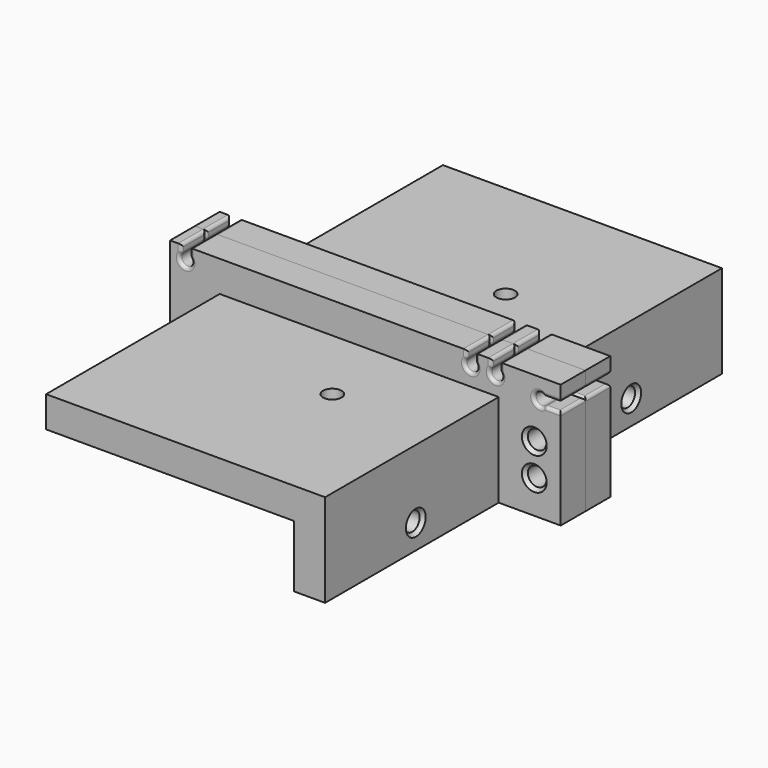
from build123d import *

# Parameters (mm, degrees)
F1_DEPTH             = 5
F2_R                 = 0.5
F3_W                 = 40
F3_H                 = 5
F4_DEPTH             = 35
F7_D                 = 3
F7_CSINK_D           = 4
F7_CSINK_ANGLE       = 82
F7_ON_F6_D           = 3
F7_ON_F6_CSINK_D     = 4
F7_ON_F6_CSINK_ANGLE = 82
F7_ON_F3_D           = 3
F7_ON_F3_CSINK_D     = 4
F7_ON_F3_CSINK_ANGLE = 82


with BuildPart() as f1:
    # F0 (on Front) → F1 (new body)
    with BuildSketch(Plane.XZ):
        with BuildLine():
            Line((-55, 0), (0, 0))
            Line((0, 0), (0, 20))
            Line((0, 20), (-1.7928932188, 20))
            Line((-1.7928932188, 20), (-1.7928932188, 18.6897154199))
            ThreePointArc((-1.7928932188, 18.6897154199), (-1.5761204675, 18.3652920711), (-1.5, 17.9826086387))
            ThreePointArc((-1.5, 17.9826086387), (-2.8826834324, 17.0587291062), (-3.2071067812, 18.6897154199))
            Line((-3.2071067812, 18.6897154199), (-3.2071067812, 20))
            Line((-3.2071067812, 20), (-5.7928932188, 20))
            Line((-5.7928932188, 20), (-5.7928932188, 18.6897154199))
            ThreePointArc((-5.7928932188, 18.6897154199), (-5.5761204675, 18.3652920711), (-5.5, 17.9826086387))
            ThreePointArc((-5.5, 17.9826086387), (-6.8826834324, 17.0587291062), (-7.2071067812, 18.6897154199))
            Line((-7.2071067812, 18.6897154199), (-7.2071067812, 20))
            Line((-7.2071067812, 20), (-51.7928932188, 20))
            Line((-51.7928932188, 20), (-51.7928932188, 18.6897154199))
            ThreePointArc((-51.7928932188, 18.6897154199), (-51.5761204675, 18.3652920711), (-51.5, 17.9826086387))
            ThreePointArc((-51.5, 17.9826086387), (-52.8826834324, 17.0587291062), (-53.2071067812, 18.6897154199))
            Line((-53.2071067812, 18.6897154199), (-53.2071067812, 20))
            Line((-53.2071067812, 20), (-55, 20))
            Line((-55, 20), (-55, 0))
        make_face()
        with BuildLine():
            Line((0, 20), (0, 0))
            Line((0, 0), (8, 0))
            Line((8, 0), (8, 16.0565952538))
            Line((8, 16.0565952538), (5.3546765121, 16.0565952538))
            ThreePointArc((5.3546765121, 16.0565952538), (3.6475697309, 16.763702035), (5.3546765121, 17.4708088161))
            Line((5.3546765121, 17.4708088161), (8, 17.4708088161))
            Line((8, 17.4708088161), (8, 20))
            Line((8, 20), (0, 20))
        make_face()
    extrude(amount=F1_DEPTH)

    # F2
    f2_edges = [f1.edges().sort_by_distance(p)[0] for p in [
        (-51.792893, -2.5, 20),
        (-51.792893, -2.5, 18.689715),
        (-51.792893, 0, 19.344858),
        (-51.792893, -5, 19.344858),
        (-53.207107, -2.5, 18.689715),
        (-52.5, 0, 16.982609),
        (-52.5, -5, 16.982609),
        (-53.207107, -2.5, 20),
        (-53.207107, 0, 19.344858),
        (-53.207107, -5, 19.344858),
        (-1.792893, -2.5, 20),
        (-1.792893, -2.5, 18.689715),
        (-1.792893, 0, 19.344858),
        (-1.792893, -5, 19.344858),
        (-3.207107, -2.5, 18.689715),
        (-3.207107, -2.5, 20),
        (-3.207107, 0, 19.344858),
        (-3.207107, -5, 19.344858),
        (-2.5, -5, 16.982609),
        (-2.5, 0, 16.982609),
        (-6.5, -5, 16.982609),
        (-5.792893, -2.5, 18.689715),
        (-7.207107, -5, 19.344858),
        (-7.207107, -2.5, 18.689715),
        (-6.5, 0, 16.982609),
        (-5.792893, -2.5, 20),
        (-5.792893, -5, 19.344858),
        (-7.207107, -2.5, 20),
        (-7.207107, 0, 19.344858),
        (-5.792893, 0, 19.344858),
        (3.64757, -5, 16.763702),
        (5.354677, -2.5, 17.470809),
        (5.354677, -2.5, 16.056595),
        (6.677338, -5, 16.056595),
        (6.677338, -5, 17.470809),
        (8, -2.5, 16.056595),
        (6.677338, 0, 16.056595),
        (6.677338, 0, 17.470809),
        (8, -2.5, 17.470809),
        (3.64757, 0, 16.763702),
    ]]
    fillet(f2_edges, radius=F2_R)

    # F3 (on face) → F4 (join)
    with BuildSketch(Plane.XZ.offset(5)):
        Polygon((-2, 15), (-7, 15), (-7, 10), (-7, 0), (-2, 0), align=None)
        with Locations((-27, 12.5)):
            Rectangle(F3_W, F3_H)
    extrude(amount=F4_DEPTH)

    # F7 (through all)
    with Locations(Plane(origin=(0, 0, 10), x_dir=(1, 0, 0), z_dir=(0, 0, -1))):
        with Locations((-18.8592430204, 17.4757260829)):
            CounterSinkHole(F7_D / 2, F7_CSINK_D / 2, counter_sink_angle=F7_CSINK_ANGLE)

    # F7 on F6 (through all)
    with Locations(Plane.YZ.offset(-2)):
        with Locations((-21.7129606754, 3.9522117004)):
            CounterSinkHole(F7_ON_F6_D / 2, F7_ON_F6_CSINK_D / 2, counter_sink_angle=F7_ON_F6_CSINK_ANGLE)

    # F7 on F3 (through all)
    with Locations(Plane.XZ.offset(5)):
        with Locations((-43.513469398, 5.3685600869), (-13.1509760395, 5.3685600869), (3.7403781898, 5.3685600869), (3.7403781898, 10.5947963893)):
            CounterSinkHole(F7_ON_F3_D / 2, F7_ON_F3_CSINK_D / 2, counter_sink_angle=F7_ON_F3_CSINK_ANGLE)


with BuildPart() as f8_1:
    # F8: instance of F1
    add(f1.part.mirror(Plane(origin=(-24.1236921155, 0, 9.8280894327), x_dir=(1, 0, 0), z_dir=(0, 1, 0))))


solid = Compound([f1.part, f8_1.part])
